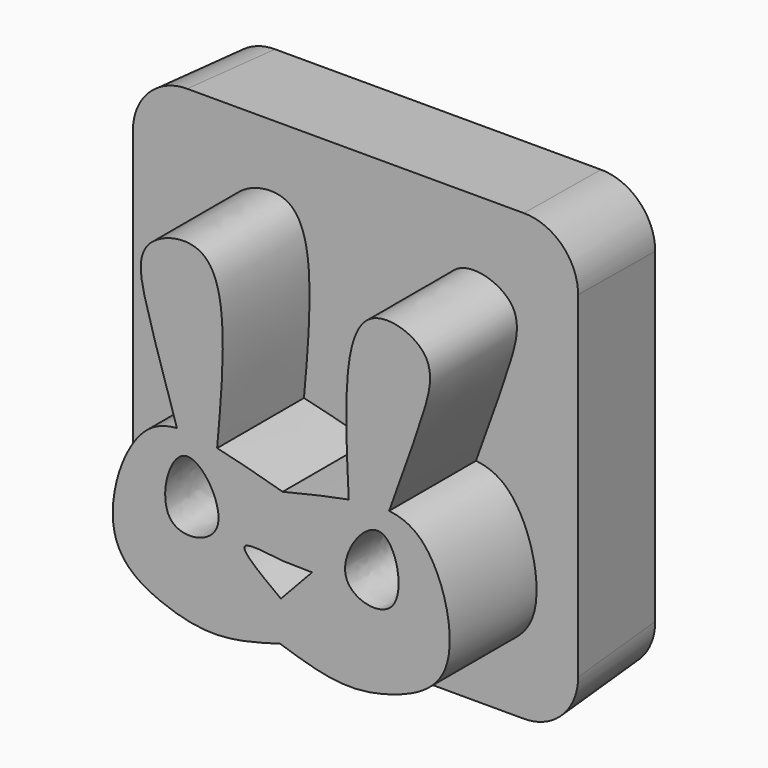
from build123d import *

# Parameters (mm, degrees)
F0_W     = 40
F0_H     = 40
F1_DEPTH = 9.5
F1_TAPER = -3
F3_DEPTH = 10
F4_R     = 5


with BuildPart() as f1:
    # F0 (on Front) → F1 (new body)
    with BuildSketch(Plane.XZ):
        with Locations((14.15322721, -3.2874327707)):
            Rectangle(F0_W, F0_H)
    extrude(amount=F1_DEPTH, taper=F1_TAPER)

    # F2 (on face) → F3 (join)
    with BuildSketch(Plane.XZ.offset(9.5)):
        with BuildLine():
            add(Edge.make_bspline(
                [(15.4427378055, -5.9380531249), (17.4076100785, -5.4627778585), (19.3724823516, -4.9875025921), (21.532589289, -4.5901611645)],
                knots=[0, 0, 0, 0, 0.1628644785, 0.1628644785, 0.1628644785, 0.1628644785], degree=3))
            add(Edge.make_bspline(
                [(15.4427378055, -5.9380531249), (13.496935518, -5.3899079926), (11.5511332305, -4.8417628604), (9.4073284417, -4.3642241508)],
                knots=[0, 0, 0, 0, 0.1628644785, 0.1628644785, 0.1628644785, 0.1628644785], degree=3))
            add(Edge.make_bspline(
                [(9.4073284417, -4.3642241508), (8.1937678427, -4.0939000217), (6.9167584838, -3.8462013136), (5.7046060089, -3.9363729443)],
                knots=[0.1628644785, 0.1628644785, 0.1628644785, 0.1628644785, 0.255058467, 0.255058467, 0.255058467, 0.255058467], degree=3))
            add(Edge.make_bspline(
                [(5.7046060089, -3.9363729443), (4.7430674137, -4.0079014895), (1.2301656717, -5.0919629627), (-1.8907689465, -15.255745714), (4.3114213843, -18.83853525), (9.6106669115, -19.9361347211), (13.3221727046, -18.8762759486), (15.2117066308, -18.3367000407)],
                knots=[0.255058467, 0.255058467, 0.255058467, 0.255058467, 0.3281912453, 0.5340858443, 0.6934199544, 0.8439195762, 1, 1, 1, 1], degree=3))
            add(Edge.make_bspline(
                [(25.2486806324, -4.3005490154), (26.2068870067, -4.4078492813), (29.676964295, -5.6220286504), (32.4170885825, -15.8950239096), (26.0857296406, -19.2442685571), (20.7492725245, -20.1436868159), (17.0798273993, -18.9462945066), (15.2117066308, -18.3367000407)],
                knots=[0.255058467, 0.255058467, 0.255058467, 0.255058467, 0.3281912453, 0.5340858443, 0.6934199544, 0.8439195762, 1, 1, 1, 1], degree=3))
            add(Edge.make_bspline(
                [(21.532589289, -4.5901611645), (22.7553781748, -4.3652349475), (24.0407288831, -4.1652821799), (25.2486806324, -4.3005490154)],
                knots=[0.1628644785, 0.1628644785, 0.1628644785, 0.1628644785, 0.255058467, 0.255058467, 0.255058467, 0.255058467], degree=3))
        make_face()
        with BuildLine():
            add(Edge.make_bspline(
                [(15.4427378055, -11.5409493446), (13.7694562977, -11.3282843825), (10.1862339635, -10.8728763483), (13.5090703004, -13.343147403), (15.2802193352, -14.6598593174)],
                knots=[0, 0, 0, 0, 0.4669767466, 1, 1, 1, 1], degree=3))
            Line((15.4427378055, -11.5409493446), (18.1529070965, -11.5914495))
            Line((18.1529070965, -11.5914495), (15.2802193352, -14.6598593174))
        make_face(mode=Mode.SUBTRACT)
        with BuildLine():
            add(Edge.make_bspline(
                [(6.497845985, -5.9380531249), (4.9591381281, -6.1938031511), (3.0926448712, -13.3888531992), (11.8647773781, -11.8123598553), (8.0192428058, -5.6851803817), (6.497845985, -5.9380531249)],
                knots=[0, 0, 0, 0, 0.3501257858, 0.6538132596, 1, 1, 1, 1], degree=3))
        make_face(mode=Mode.SUBTRACT)
        with BuildLine():
            add(Edge.make_bspline(
                [(24.381420265, -6.2712881306), (25.9095322135, -6.5841839879), (27.5066837811, -13.8437741377), (18.7993717458, -11.9415761718), (22.8705001447, -5.9619124681), (24.381420265, -6.2712881306)],
                knots=[0, 0, 0, 0, 0.3501257858, 0.6538132596, 1, 1, 1, 1], degree=3))
        make_face(mode=Mode.SUBTRACT)
        with BuildLine():
            add(Edge.make_bspline(
                [(9.4073284417, -4.3642241508), (8.1937678427, -4.0939000217), (6.9167584838, -3.8462013136), (5.7046060089, -3.9363729443)],
                knots=[0.1628644785, 0.1628644785, 0.1628644785, 0.1628644785, 0.255058467, 0.255058467, 0.255058467, 0.255058467], degree=3))
            add(Edge.make_bspline(
                [(5.7046060089, -3.9363729443), (4.7391447852, -0.9450299226), (3.0410334804, 4.3132933346), (1.4933527853, 10.5705908358), (10.9490352093, 13.1548066897), (10.0054336437, 2.4322746557), (9.4073284417, -4.3642241508)],
                knots=[0, 0, 0, 0, 0.2624421968, 0.4615594882, 0.658736598, 1, 1, 1, 1], degree=3))
        make_face()
        with BuildLine():
            add(Edge.make_bspline(
                [(25.2486806324, -4.3005490154), (26.3249118164, -1.3472500317), (28.2177390808, 3.8441611857), (29.9974561718, 10.0394573552), (20.6446106461, 12.9741434126), (21.1880975701, 2.2239015968), (21.532589289, -4.5901611645)],
                knots=[0, 0, 0, 0, 0.2624421968, 0.4615594882, 0.658736598, 1, 1, 1, 1], degree=3))
            add(Edge.make_bspline(
                [(21.532589289, -4.5901611645), (22.7553781748, -4.3652349475), (24.0407288831, -4.1652821799), (25.2486806324, -4.3005490154)],
                knots=[0.1628644785, 0.1628644785, 0.1628644785, 0.1628644785, 0.255058467, 0.255058467, 0.255058467, 0.255058467], degree=3))
        make_face()
    extrude(amount=F3_DEPTH)

    # F4
    f4_edges = [f1.edges().sort_by_distance(p)[0] for p in [
        (-6.09571, -4.75, 16.961504),
        (34.402164, -4.75, 16.961504),
        (34.402164, -4.75, -23.53637),
        (-6.09571, -4.75, -23.53637),
    ]]
    fillet(f4_edges, radius=F4_R)


solid = f1.part
